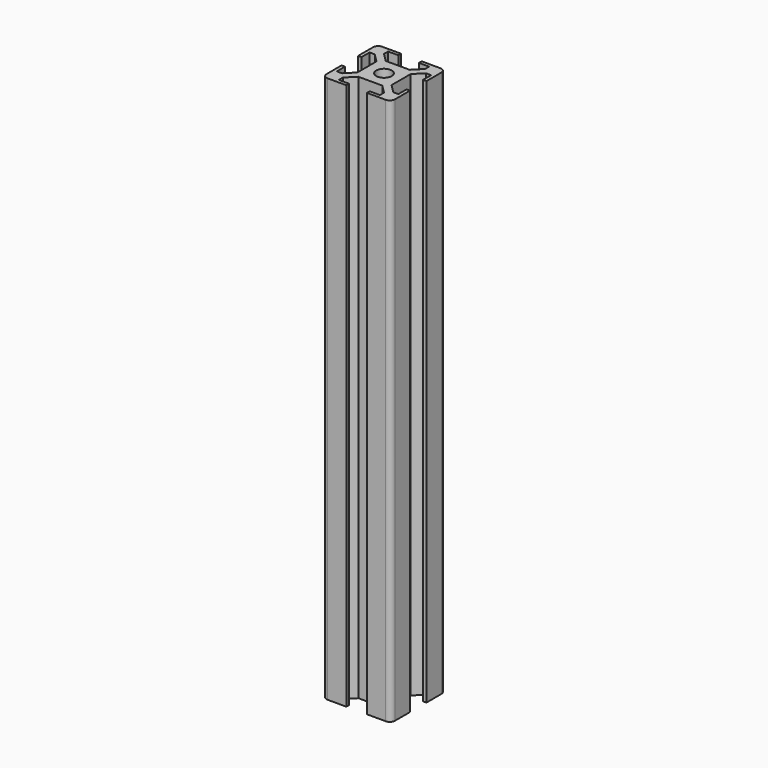
from build123d import *

# Parameters (mm, degrees)
SKETCH_R  = 2.25
PAD_DEPTH = 160
FILLET_R  = 1.5


with BuildPart() as part:
    # Sketch → Pad (new body)
    with BuildSketch(Plane(origin=(0, 0, 0), x_dir=(1, 0, 0), z_dir=(0, 0, -1))):
        Polygon((7, 0), (7, -1), (4, -1), (4, -2.5), (6.499998, -5), (13.500002, -5), (16, -2.5), (16, -1), (13, -1), (13, 0), (20, 0), (20, -7), (19, -7), (19, -4), (17.5, -4), (15.000002, -6.5), (15.000002, -13.500005), (17.5, -16.000005), (19, -16.000005), (19, -13.000005), (20, -13.000005), (20, -20.000005), (13, -20.000005), (13, -19.000005), (16, -19.000005), (16, -17.500005), (13.500002, -15.000005), (6.499998, -15.000005), (4, -17.500005), (4, -19.000005), (7, -19.000005), (7, -20.000005), (0, -20.000005), (0, -13.000005), (1, -13.000005), (1, -16.000005), (2.5, -16.000005), (4.999998, -13.500005), (4.999998, -6.5), (2.5, -4), (1, -4), (1, -7), (0, -7), (0, 0), align=None)
        with Locations((10, -10.000002)):
            Circle(SKETCH_R, mode=Mode.SUBTRACT)
    extrude(amount=PAD_DEPTH)

    # Fillet
    fillet_edges = [part.edges().sort_by_distance(p)[0] for p in [
        (20, 20.000005, -80),
        (20, 0, -80),
        (0, 20.000005, -80),
        (0, 0, -80),
    ]]
    fillet(fillet_edges, radius=FILLET_R)


solid = part.part
